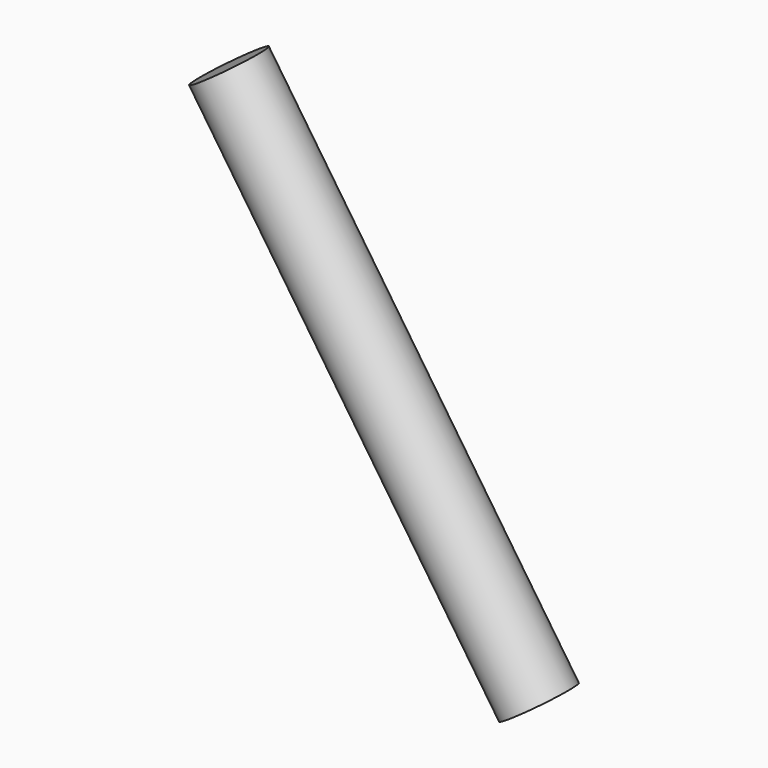
from build123d import *

# Parameters (mm, degrees)
F2_R     = 15.875
F3_DEPTH = 254


with BuildPart() as f3:
    # F2 (on face) → F3 (new body)
    with BuildSketch(Plane(origin=(-142.034997, 0, 210.575543), x_dir=(0.829038, 0, 0.559193), z_dir=(-0.559193, 0, 0.829038))):
        Circle(F2_R)
    extrude(amount=-F3_DEPTH)


solid = f3.part
